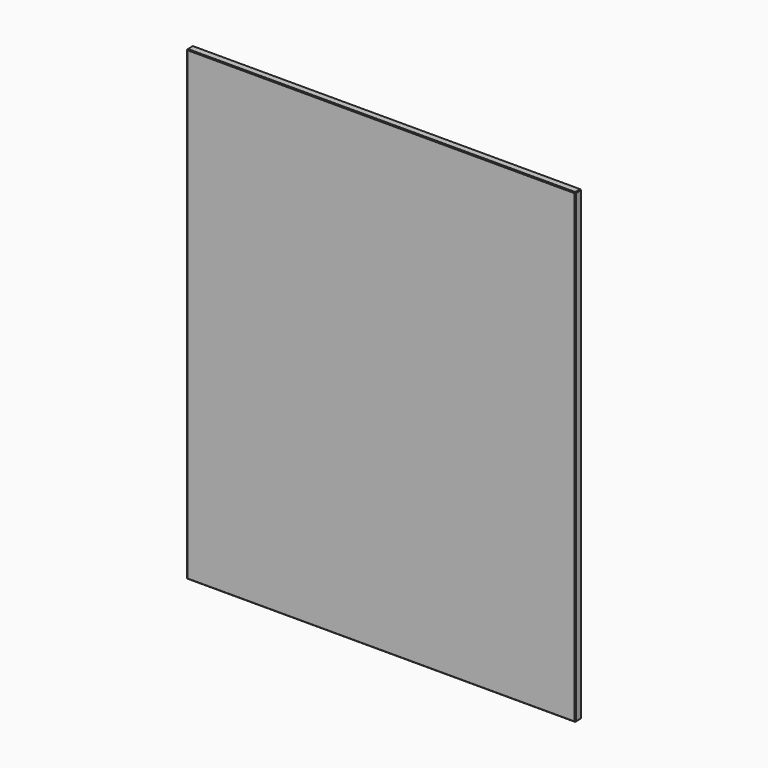
from build123d import *

# Parameters (mm, degrees)
F0_W     = 500
F0_H     = 600
F1_DEPTH = 10
F2_SIZE  = 1
F3_SIZE  = 1
F4_SIZE  = 1


with BuildPart() as f1:
    # F0 (on Front) → F1 (new body)
    with BuildSketch(Plane.XZ):
        Rectangle(F0_W, F0_H)
    extrude(amount=F1_DEPTH)

    # F2
    f2_edges = [f1.edges().sort_by_distance(p)[0] for p in [
        (0, -10, 300),
        (0, 0, 300),
        (250, -5, 300),
        (250, 0, 0),
        (250, -10, 0),
    ]]
    chamfer(f2_edges, length=F2_SIZE)

    # F3 (call 1 of 3: OpenCascade refuses the feature's edges together)
    f3_edges = [f1.edges().sort_by_distance(p)[0] for p in [
        (-250, -5, 300),
    ]]
    chamfer(f3_edges, length=F3_SIZE)

    # F3#2 (call 2 of 3)
    f3_2_edges = [f1.edges().sort_by_distance(p)[0] for p in [
        (-250, -10, -0.5),
    ]]
    chamfer(f3_2_edges, length=F3_SIZE)

    # F3#3 (call 3 of 3)
    f3_3_edges = [f1.edges().sort_by_distance(p)[0] for p in [
        (-250, 0, -0.5),
    ]]
    chamfer(f3_3_edges, length=F3_SIZE)

    # F4 (call 1 of 4: OpenCascade refuses the feature's edges together)
    f4_edges = [f1.edges().sort_by_distance(p)[0] for p in [
        (250, -5, -300),
    ]]
    chamfer(f4_edges, length=F4_SIZE)

    # F4#2 (call 2 of 4)
    f4_2_edges = [f1.edges().sort_by_distance(p)[0] for p in [
        (0, -10, -300),
    ]]
    chamfer(f4_2_edges, length=F4_SIZE)

    # F4#3 (call 3 of 4)
    f4_3_edges = [f1.edges().sort_by_distance(p)[0] for p in [
        (0, 0, -300),
    ]]
    chamfer(f4_3_edges, length=F4_SIZE)

    # F4#4 (call 4 of 4)
    f4_4_edges = [f1.edges().sort_by_distance(p)[0] for p in [
        (-250, -5, -300),
    ]]
    chamfer(f4_4_edges, length=F4_SIZE)


solid = f1.part
